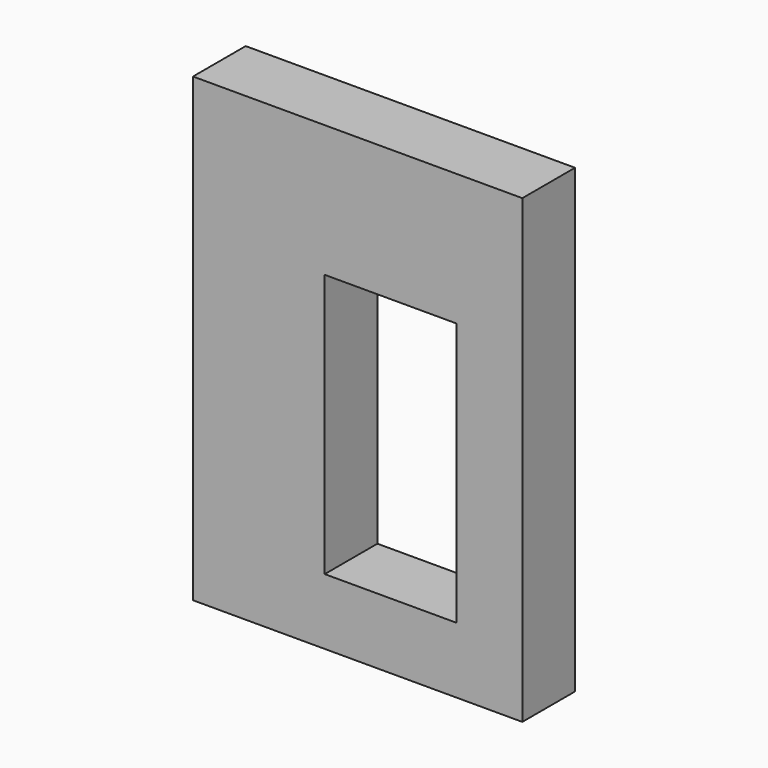
from build123d import *

# Parameters (mm, degrees)
F0_W     = 50
F0_H     = 70
F0_W_2   = 20
F0_H_2   = 40
F1_DEPTH = 10
F2_DEPTH = 10


with BuildPart() as f1:
    # F0 (on Front) → F1 (new body)
    with BuildSketch(Plane.XZ):
        with Locations((25, -35)):
            Rectangle(F0_W, F0_H)
        with Locations((30, -40)):
            Rectangle(F0_W_2, F0_H_2, mode=Mode.SUBTRACT)
        with Locations((25, -35)):
            Rectangle(F0_W, F0_H)
        with Locations((30, -40)):
            Rectangle(F0_W_2, F0_H_2, mode=Mode.SUBTRACT)
    extrude(amount=F1_DEPTH)

    # F0 (on Front) → F2 (join)
    with BuildSketch(Plane.XZ):
        with Locations((25, -35)):
            Rectangle(F0_W, F0_H)
        with Locations((30, -40)):
            Rectangle(F0_W_2, F0_H_2, mode=Mode.SUBTRACT)
    extrude(amount=F2_DEPTH)


solid = f1.part
